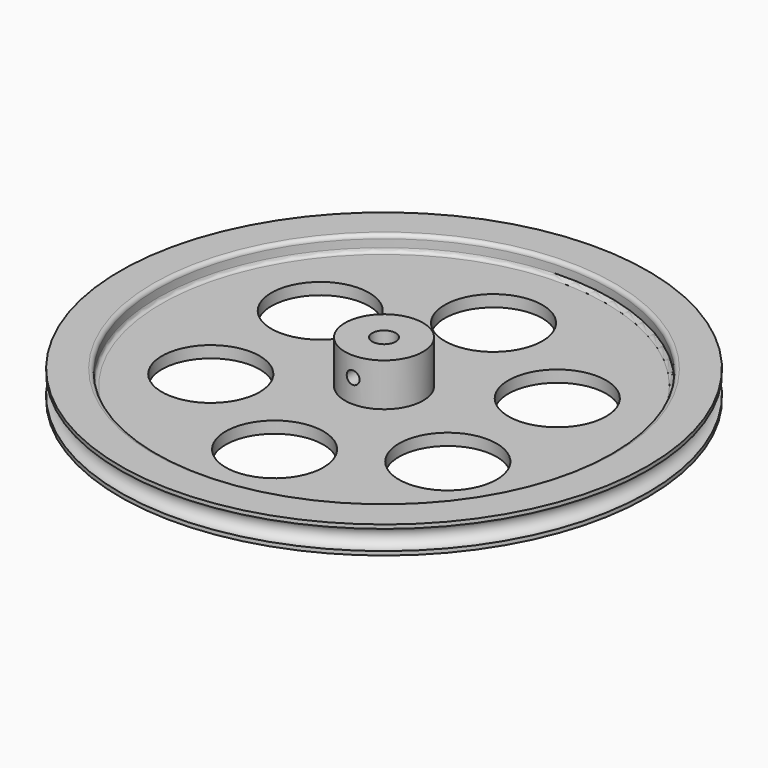
from build123d import *

# Parameters (mm, degrees)
CYLINDER002_R     = 10
CYLINDER002_DEPTH = 14
CYLINDER001_R     = 58
CYLINDER001_DEPTH = 4
CYLINDER_R        = 67.5
CYLINDER_DEPTH    = 7
SKETCH_R          = 3
HOLE_DEPTH        = 14.001
SKETCH001_R       = 2.5
SKETCH002_R       = 12.5
HOLE001_DEPTH     = 3.001
SKETCH003_R       = 1.65
HOLE002_DEPTH     = 9.00858
HOLE002_TIPS_R    = 1.65
FILLET_R          = 1
FILLET001_R       = 1


with BuildPart() as zylinder002:
    # Cylinder002 → Cylinder002 (new body)
    with BuildSketch(Plane.XY):
        Circle(CYLINDER002_R)
    extrude(amount=CYLINDER002_DEPTH)


with BuildPart() as zylinder001:
    # Cylinder001 → Cylinder001 (new body)
    with BuildSketch(Plane.XY.offset(3)):
        Circle(CYLINDER001_R)
    extrude(amount=CYLINDER001_DEPTH)


with BuildPart() as body:
    # Cylinder → Cylinder (new body)
    with BuildSketch(Plane.XY):
        Circle(CYLINDER_R)
    extrude(amount=CYLINDER_DEPTH)

    # Cut: cut Zylinder001
    add(zylinder001.part, mode=Mode.SUBTRACT)

    # Fusion: union Zylinder002
    add(zylinder002.part)

    # Sketch (on Face1 of BaseFeature) → Hole (cut, through all)
    with BuildSketch(Plane.XY.offset(14)):
        Circle(SKETCH_R)
    extrude(amount=-HOLE_DEPTH, mode=Mode.SUBTRACT)

    # Sketch001 → Groove (revolve, cut)
    with BuildSketch(Plane.YZ):
        with Locations((67.5, 3.5)):
            Circle(SKETCH001_R)
    revolve(axis=Axis((0, 0, 0), (0, 0, 1)), mode=Mode.SUBTRACT)

    # Sketch002 (on Face4 of Groove) → Hole001 (cut, through all)
    with BuildSketch(Plane.XY.offset(3)):
        with Locations((0, 35)):
            Circle(SKETCH002_R)
        with Locations((30.310889, 17.5)):
            Circle(SKETCH002_R)
        with Locations((30.310889, -17.5)):
            Circle(SKETCH002_R)
        with Locations((-30.310889, -17.5)):
            Circle(SKETCH002_R)
        with Locations((0, -35)):
            Circle(SKETCH002_R)
        with Locations((-30.310889, 17.5)):
            Circle(SKETCH002_R)
    extrude(amount=-HOLE001_DEPTH, mode=Mode.SUBTRACT)

    # Sketch003 → Hole002 (cut)
    with BuildSketch(Plane.XZ.offset(10)):
        with Locations((0, 9)):
            Circle(SKETCH003_R)
    extrude(amount=-HOLE002_DEPTH, mode=Mode.SUBTRACT)

    # Hole002 tips → Hole002 tip 1 section 0
    with BuildSketch(Plane.XZ.offset(0.99142), mode=Mode.PRIVATE) as hole002_tip_1_s0:
        with Locations((0, 9)):
            Circle(HOLE002_TIPS_R)
    loft([hole002_tip_1_s0.sketch, Vertex(0, 0, 9)], mode=Mode.SUBTRACT)

    # Fillet
    fillet_edges = [body.edges().sort_by_distance(p)[0] for p in [
        (-58, 0, 7),
    ]]
    fillet(fillet_edges, radius=FILLET_R)

    # Fillet001
    fillet001_edges = [body.edges().sort_by_distance(p)[0] for p in [
        (-58, 0, 3),
    ]]
    fillet(fillet001_edges, radius=FILLET001_R)


solid = body.part
